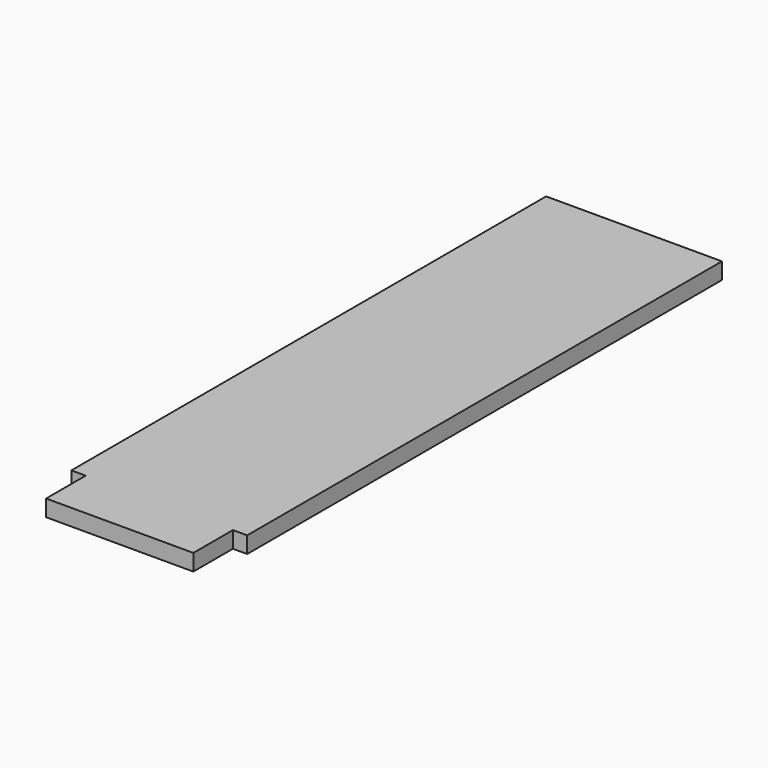
from build123d import *

# Parameters (mm, degrees)
F0_W     = 32
F0_H     = 108
F1_DEPTH = 3
F3_DEPTH = 9


with BuildPart() as f1:
    # F0 (on Top) → F1 (new body)
    with BuildSketch(Plane.XY):
        with Locations((0, -2.936995)):
            Rectangle(F0_W, F0_H)
    extrude(amount=F1_DEPTH)

    # F2 (on face) → F3 (join)
    with BuildSketch(Plane.XZ.offset(56.936995)):
        Polygon((13.4, 3), (0, 3), (-13.4, 3), (-13.4, 0), (0, 0), (13.4, 0), align=None)
    extrude(amount=F3_DEPTH)


solid = f1.part
